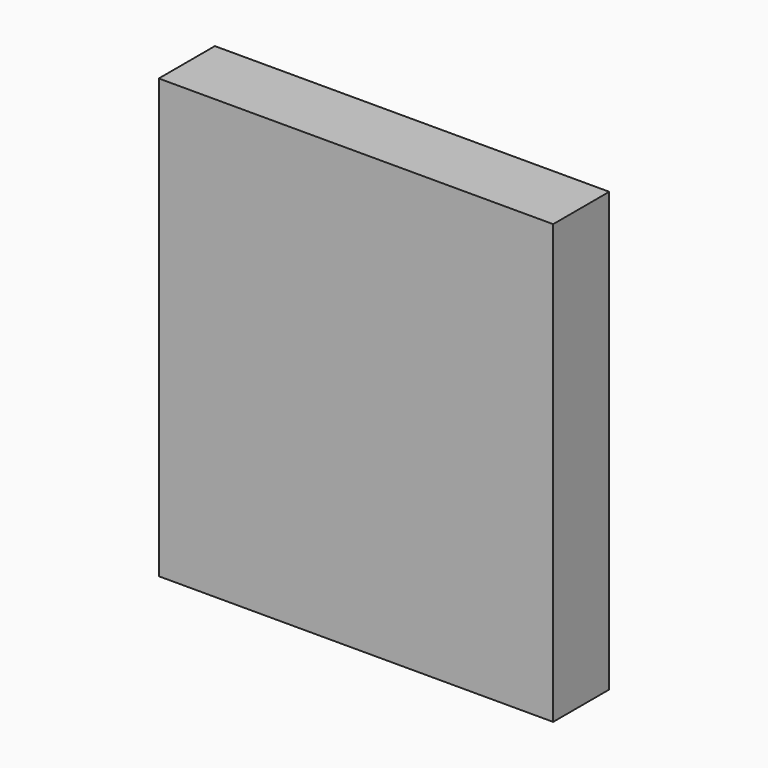
from build123d import *

# Parameters (mm, degrees)
SKETCH_W      = 45
SKETCH_H      = 8
EXTRUDE_DEPTH = 50


with BuildPart() as part:
    # Sketch → Extrude (new body)
    with BuildSketch(Plane.XY):
        Rectangle(SKETCH_W, SKETCH_H)
    extrude(amount=EXTRUDE_DEPTH)


solid = part.part
